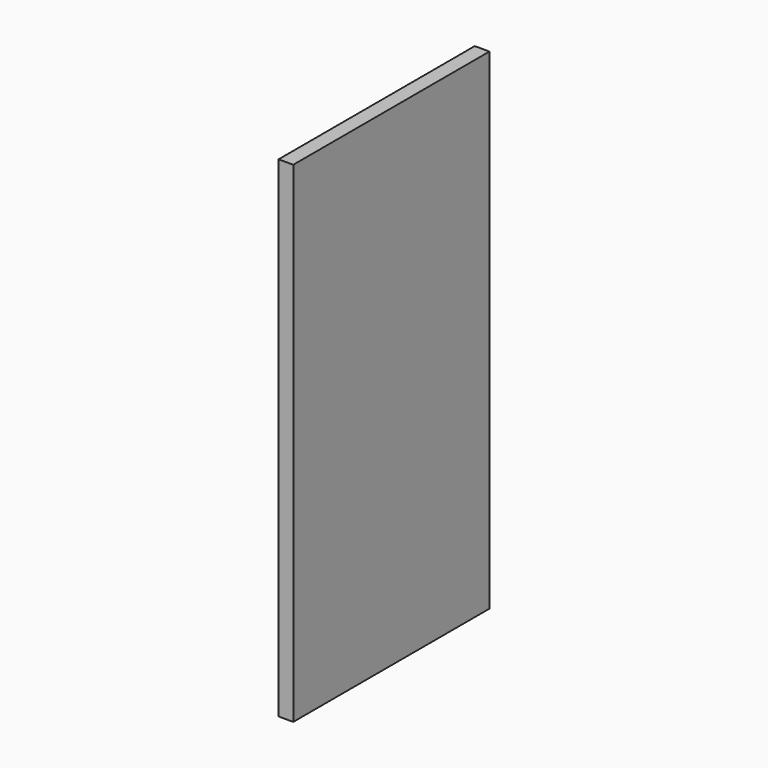
from build123d import *

# Parameters (mm, degrees)
F0_W     = 1.5
F0_H     = 100
F1_DEPTH = 25


with BuildPart() as f1:
    # F0 (on Front) → F1 (new body, symmetric)
    with BuildSketch(Plane.XZ):
        with Locations((0.75, 16.966294)):
            Rectangle(F0_W, F0_H)
        with Locations((-0.75, 16.966294)):
            Rectangle(F0_W, F0_H)
    extrude(amount=F1_DEPTH, both=True)


solid = f1.part
